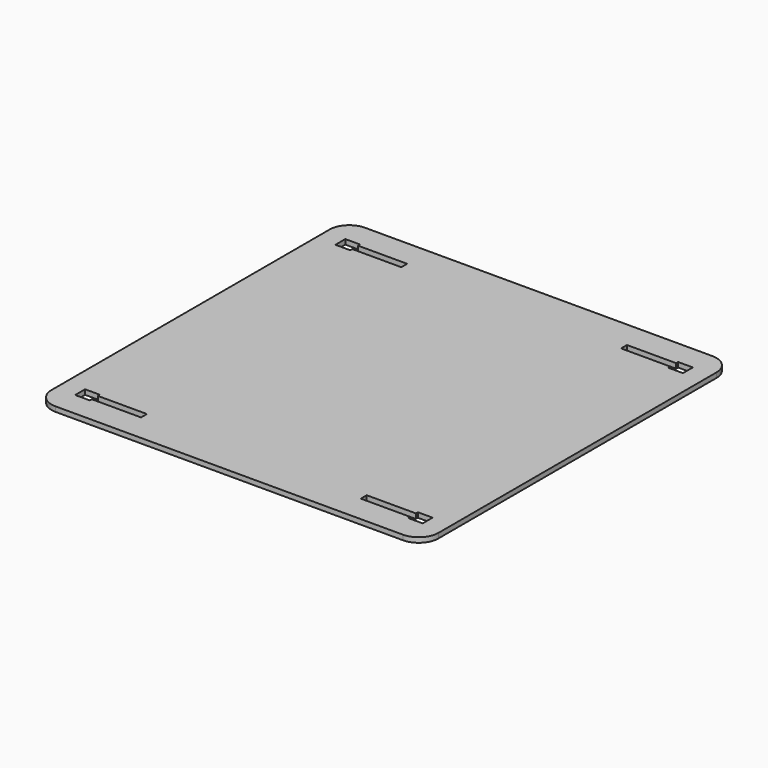
from build123d import *

# Parameters (mm, degrees)
F1_DEPTH = 12.7


with BuildPart() as f1:
    # F0 (on Top) → F1 (new body)
    with BuildSketch(Plane.XY):
        with BuildLine():
            Line((0, 500), (-449.2, 500))
            ThreePointArc((-449.2, 500), (-485.121024, 485.121024), (-500, 449.2))
            Line((-500, 449.2), (-500, 0))
            Line((-500, 0), (0, 0))
            Line((0, 0), (0, 500))
        make_face()
        Polygon((-411.1, 410.973), (-411.1, 404.496), (-449.2, 404.496), (-449.2, 436.5), (-411.1, 436.5), (-411.1, 430.023), (-284.1, 430.023), (-284.1, 410.973), align=None, mode=Mode.SUBTRACT)
        with BuildLine():
            Line((449.2, 500), (0, 500))
            Line((0, 500), (0, 0))
            Line((0, 0), (500, 0))
            Line((500, 0), (500, 449.2))
            ThreePointArc((500, 449.2), (485.121024, 485.121024), (449.2, 500))
        make_face()
        Polygon((411.1, 430.023), (411.1, 436.5), (449.2, 436.5), (449.2, 404.496), (411.1, 404.496), (411.1, 410.973), (284.1, 410.973), (284.1, 430.023), align=None, mode=Mode.SUBTRACT)
        with BuildLine():
            Line((500, 0), (0, 0))
            Line((0, 0), (0, -500))
            Line((0, -500), (449.2, -500))
            ThreePointArc((449.2, -500), (485.121024, -485.121024), (500, -449.2))
            Line((500, -449.2), (500, 0))
        make_face()
        Polygon((284.1, -430.023), (284.1, -410.973), (411.1, -410.973), (411.1, -404.496), (449.2, -404.496), (449.2, -436.5), (411.1, -436.5), (411.1, -430.023), align=None, mode=Mode.SUBTRACT)
        with BuildLine():
            Line((0, -500), (0, 0))
            Line((0, 0), (-500, 0))
            Line((-500, 0), (-500, -449.2))
            ThreePointArc((-500, -449.2), (-485.121024, -485.121024), (-449.2, -500))
            Line((-449.2, -500), (0, -500))
        make_face()
        Polygon((-449.2, -436.5), (-449.2, -404.496), (-411.1, -404.496), (-411.1, -410.973), (-284.1, -410.973), (-284.1, -430.023), (-411.1, -430.023), (-411.1, -436.5), align=None, mode=Mode.SUBTRACT)
    extrude(amount=F1_DEPTH)


solid = f1.part
